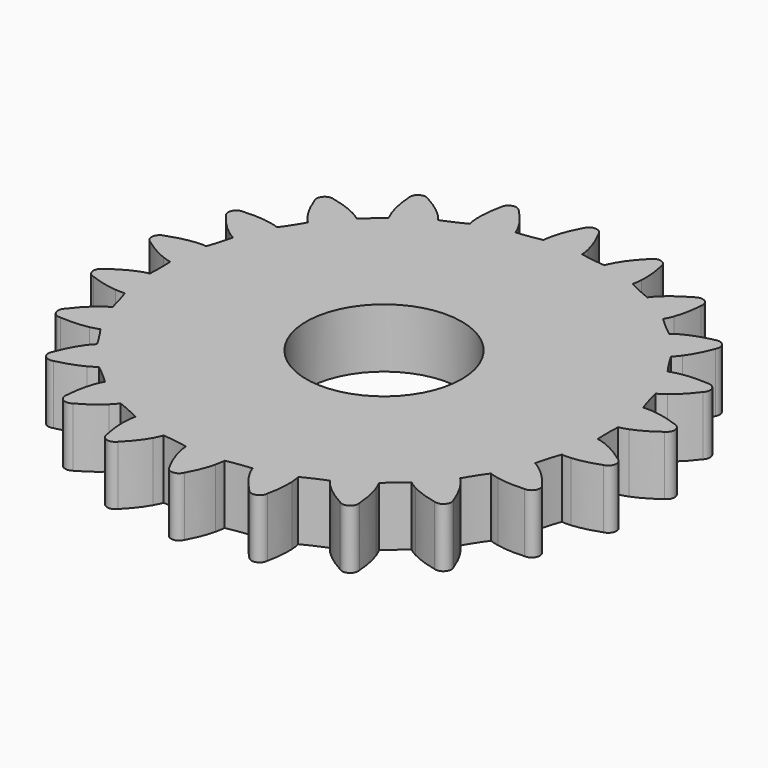
from build123d import *

# Parameters (mm, degrees)
PAD_DEPTH    = 3.9
SKETCH001_R  = 5.125
POCKET_DEPTH = 4


with BuildPart() as part:
    # InvoluteGear → Pad (new body)
    with BuildSketch(Plane.XY):
        with BuildLine():
            add(Edge.make_bspline(
                [(16.931813, -1.928575), (16.281316, -1.439068), (15.731397, -1.164724), (15.334518, -1.012043)],
                knots=[0, 0, 0, 0, 1, 1, 1, 1], degree=3))
            add(Edge.make_bspline(
                [(15.334518, -1.012043), (15.050529, -0.903254), (14.850987, -0.858636), (14.744413, -0.84061)],
                knots=[0, 0, 0, 0, 1, 1, 1, 1], degree=3))
            ThreePointArc((14.744413, -0.84061), (14.720295, -4.2e-05), (14.744061, 0.840537))
            add(Edge.make_bspline(
                [(14.744061, 0.840537), (14.850987, 0.858636), (15.050529, 0.903254), (15.334518, 1.012043)],
                knots=[0, 0, 0, 0, 1, 1, 1, 1], degree=3))
            add(Edge.make_bspline(
                [(15.334518, 1.012043), (15.731397, 1.164724), (16.281316, 1.439068), (16.931813, 1.928575)],
                knots=[0, 0, 0, 0, 1, 1, 1, 1], degree=3))
            ThreePointArc((16.931813, 1.928575), (17.208227, 2.47417), (16.789298, 2.919789))
            add(Edge.make_bspline(
                [(16.789298, 2.919789), (16.027241, 3.206201), (15.422306, 3.314502), (14.998488, 3.349185)],
                knots=[0, 0, 0, 0, 1, 1, 1, 1], degree=3))
            add(Edge.make_bspline(
                [(14.998488, 3.349185), (14.695353, 3.373558), (14.491324, 3.360151), (14.383988, 3.347422)],
                knots=[0, 0, 0, 0, 1, 1, 1, 1], degree=3))
            ThreePointArc((14.383988, 3.347422), (14.124032, 4.147147), (13.910016, 4.960371))
            add(Edge.make_bspline(
                [(13.910016, 4.960371), (14.007512, 5.007862), (14.186401, 5.10689), (14.428237, 5.291282)],
                knots=[0, 0, 0, 0, 1, 1, 1, 1], degree=3))
            add(Edge.make_bspline(
                [(14.428237, 5.291282), (14.766024, 5.549591), (15.216376, 5.967753), (15.702613, 6.620697)],
                knots=[0, 0, 0, 0, 1, 1, 1, 1], degree=3))
            ThreePointArc((15.702613, 6.620697), (15.814119, 7.222066), (15.286614, 7.531608))
            add(Edge.make_bspline(
                [(15.286614, 7.531608), (14.474734, 7.591723), (13.863791, 7.525207), (13.44737, 7.439081)],
                knots=[0, 0, 0, 0, 1, 1, 1, 1], degree=3))
            add(Edge.make_bspline(
                [(13.44737, 7.439081), (13.149646, 7.377065), (12.957659, 7.306719), (12.858258, 7.264265)],
                knots=[0, 0, 0, 0, 1, 1, 1, 1], degree=3))
            ThreePointArc((12.858258, 7.264265), (12.383523, 7.958358), (11.949064, 8.678346))
            add(Edge.make_bspline(
                [(11.949064, 8.678346), (12.029232, 8.751381), (12.172975, 8.896796), (12.353066, 9.141852)],
                knots=[0, 0, 0, 0, 1, 1, 1, 1], degree=3))
            add(Edge.make_bspline(
                [(12.353066, 9.141852), (12.604396, 9.484864), (12.918695, 10.012965), (13.201281, 10.77645)],
                knots=[0, 0, 0, 0, 1, 1, 1, 1], degree=3))
            ThreePointArc((13.201281, 10.77645), (13.138845, 11.384874), (12.545499, 11.533262))
            add(Edge.make_bspline(
                [(12.545499, 11.533262), (11.74957, 11.362208), (11.182114, 11.126265), (10.806825, 10.926308)],
                knots=[0, 0, 0, 0, 1, 1, 1, 1], degree=3))
            add(Edge.make_bspline(
                [(10.806825, 10.926308), (10.538634, 10.782925), (10.374242, 10.66134), (10.290828, 10.592601)],
                knots=[0, 0, 0, 0, 1, 1, 1, 1], degree=3))
            ThreePointArc((10.290828, 10.592601), (9.639775, 11.12483), (9.020071, 11.693252))
            add(Edge.make_bspline(
                [(9.020071, 11.693252), (9.076415, 11.785914), (9.173367, 11.965936), (9.277123, 12.251803)],
                knots=[0, 0, 0, 0, 1, 1, 1, 1], degree=3))
            add(Edge.make_bspline(
                [(9.277123, 12.251803), (9.421635, 12.651729), (9.574419, 13.246987), (9.63046, 14.059158)],
                knots=[0, 0, 0, 0, 1, 1, 1, 1], degree=3))
            ThreePointArc((9.63046, 14.059158), (9.39914, 14.625347), (8.788023, 14.60056))
            add(Edge.make_bspline(
                [(8.788023, 14.60056), (8.072526, 14.212195), (7.594529, 13.825938), (7.290776, 13.528351)],
                knots=[0, 0, 0, 0, 1, 1, 1, 1], degree=3))
            add(Edge.make_bspline(
                [(7.290776, 13.528351), (7.073844, 13.315217), (6.950366, 13.152243), (6.889697, 13.062788)],
                knots=[0, 0, 0, 0, 1, 1, 1, 1], degree=3))
            ThreePointArc((6.889697, 13.062788), (6.11507, 13.390034), (5.360325, 13.760841))
            add(Edge.make_bspline(
                [(5.360325, 13.760841), (5.38828, 13.865623), (5.430587, 14.065668), (5.449602, 14.369187)],
                knots=[0, 0, 0, 0, 1, 1, 1, 1], degree=3))
            add(Edge.make_bspline(
                [(5.449602, 14.369187), (5.475588, 14.793626), (5.45448, 15.407816), (5.279436, 16.202878)],
                knots=[0, 0, 0, 0, 1, 1, 1, 1], degree=3))
            ThreePointArc((5.279436, 16.202878), (4.897972, 16.680961), (4.318593, 16.485006))
            add(Edge.make_bspline(
                [(4.318593, 16.485006), (3.741493, 15.910795), (3.39168, 15.405517), (3.184072, 15.034406)],
                knots=[0, 0, 0, 0, 1, 1, 1, 1], degree=3))
            add(Edge.make_bspline(
                [(3.184072, 15.034406), (3.035973, 14.76879), (2.963412, 14.577629), (2.930403, 14.474705)],
                knots=[0, 0, 0, 0, 1, 1, 1, 1], degree=3))
            ThreePointArc((2.930403, 14.474705), (2.094958, 14.570458), (1.266317, 14.713608))
            add(Edge.make_bspline(
                [(1.266317, 14.713608), (1.263619, 14.822022), (1.247854, 15.025883), (1.180587, 15.322464)],
                knots=[0, 0, 0, 0, 1, 1, 1, 1], degree=3))
            add(Edge.make_bspline(
                [(1.180587, 15.322464), (1.085942, 15.737032), (0.892652, 16.320396), (0.500703, 17.033936)],
                knots=[0, 0, 0, 0, 1, 1, 1, 1], degree=3))
            ThreePointArc((0.500703, 17.033936), (0, 17.385183), (-0.500703, 17.033936))
            add(Edge.make_bspline(
                [(-0.500703, 17.033936), (-0.892652, 16.320396), (-1.085942, 15.737032), (-1.180587, 15.322464)],
                knots=[0, 0, 0, 0, 1, 1, 1, 1], degree=3))
            add(Edge.make_bspline(
                [(-1.180587, 15.322464), (-1.247854, 15.025883), (-1.263619, 14.822022), (-1.266295, 14.713968)],
                knots=[0, 0, 0, 0, 1, 1, 1, 1], degree=3))
            ThreePointArc((-1.266295, 14.713968), (-2.094875, 14.57047), (-2.93028, 14.474366))
            add(Edge.make_bspline(
                [(-2.93028, 14.474366), (-2.963412, 14.577629), (-3.035973, 14.76879), (-3.184072, 15.034406)],
                knots=[0, 0, 0, 0, 1, 1, 1, 1], degree=3))
            add(Edge.make_bspline(
                [(-3.184072, 15.034406), (-3.39168, 15.405517), (-3.741493, 15.910795), (-4.318593, 16.485006)],
                knots=[0, 0, 0, 0, 1, 1, 1, 1], degree=3))
            ThreePointArc((-4.318593, 16.485006), (-4.897972, 16.680961), (-5.279436, 16.202878))
            add(Edge.make_bspline(
                [(-5.279436, 16.202878), (-5.45448, 15.407816), (-5.475588, 14.793626), (-5.449602, 14.369187)],
                knots=[0, 0, 0, 0, 1, 1, 1, 1], degree=3))
            add(Edge.make_bspline(
                [(-5.449602, 14.369187), (-5.430587, 14.065668), (-5.38828, 13.865623), (-5.360405, 13.761192)],
                knots=[0, 0, 0, 0, 1, 1, 1, 1], degree=3))
            ThreePointArc((-5.360405, 13.761192), (-6.114994, 13.390069), (-6.889484, 13.062497))
            add(Edge.make_bspline(
                [(-6.889484, 13.062497), (-6.950366, 13.152243), (-7.073844, 13.315217), (-7.290776, 13.528351)],
                knots=[0, 0, 0, 0, 1, 1, 1, 1], degree=3))
            add(Edge.make_bspline(
                [(-7.290776, 13.528351), (-7.594529, 13.825938), (-8.072526, 14.212195), (-8.788023, 14.60056)],
                knots=[0, 0, 0, 0, 1, 1, 1, 1], degree=3))
            ThreePointArc((-8.788023, 14.60056), (-9.39914, 14.625347), (-9.63046, 14.059158))
            add(Edge.make_bspline(
                [(-9.63046, 14.059158), (-9.574419, 13.246987), (-9.421635, 12.651729), (-9.277123, 12.251803)],
                knots=[0, 0, 0, 0, 1, 1, 1, 1], degree=3))
            add(Edge.make_bspline(
                [(-9.277123, 12.251803), (-9.173367, 11.965936), (-9.076415, 11.785914), (-9.020246, 11.693567)],
                knots=[0, 0, 0, 0, 1, 1, 1, 1], degree=3))
            ThreePointArc((-9.020246, 11.693567), (-9.639712, 11.124884), (-10.290542, 10.592383))
            add(Edge.make_bspline(
                [(-10.290542, 10.592383), (-10.374242, 10.66134), (-10.538634, 10.782925), (-10.806825, 10.926308)],
                knots=[0, 0, 0, 0, 1, 1, 1, 1], degree=3))
            add(Edge.make_bspline(
                [(-10.806825, 10.926308), (-11.182114, 11.126265), (-11.74957, 11.362208), (-12.545499, 11.533262)],
                knots=[0, 0, 0, 0, 1, 1, 1, 1], degree=3))
            ThreePointArc((-12.545499, 11.533262), (-13.138845, 11.384874), (-13.201281, 10.77645))
            add(Edge.make_bspline(
                [(-13.201281, 10.77645), (-12.918695, 10.012965), (-12.604396, 9.484864), (-12.353066, 9.141852)],
                knots=[0, 0, 0, 0, 1, 1, 1, 1], degree=3))
            add(Edge.make_bspline(
                [(-12.353066, 9.141852), (-12.172975, 8.896796), (-12.029232, 8.751381), (-11.949322, 8.678598)],
                knots=[0, 0, 0, 0, 1, 1, 1, 1], degree=3))
            ThreePointArc((-11.949322, 8.678598), (-12.383478, 7.958428), (-12.857922, 7.264136))
            add(Edge.make_bspline(
                [(-12.857922, 7.264136), (-12.957659, 7.306719), (-13.149646, 7.377065), (-13.44737, 7.439081)],
                knots=[0, 0, 0, 0, 1, 1, 1, 1], degree=3))
            add(Edge.make_bspline(
                [(-13.44737, 7.439081), (-13.863791, 7.525207), (-14.474734, 7.591723), (-15.286614, 7.531608)],
                knots=[0, 0, 0, 0, 1, 1, 1, 1], degree=3))
            ThreePointArc((-15.286614, 7.531608), (-15.814119, 7.222066), (-15.702613, 6.620697))
            add(Edge.make_bspline(
                [(-15.702613, 6.620697), (-15.216376, 5.967753), (-14.766024, 5.549591), (-14.428237, 5.291282)],
                knots=[0, 0, 0, 0, 1, 1, 1, 1], degree=3))
            add(Edge.make_bspline(
                [(-14.428237, 5.291282), (-14.186401, 5.10689), (-14.007512, 5.007862), (-13.910334, 4.960541)],
                knots=[0, 0, 0, 0, 1, 1, 1, 1], degree=3))
            ThreePointArc((-13.910334, 4.960541), (-14.124008, 4.147226), (-14.383629, 3.347392))
            add(Edge.make_bspline(
                [(-14.383629, 3.347392), (-14.491324, 3.360151), (-14.695353, 3.373558), (-14.998488, 3.349185)],
                knots=[0, 0, 0, 0, 1, 1, 1, 1], degree=3))
            add(Edge.make_bspline(
                [(-14.998488, 3.349185), (-15.422306, 3.314502), (-16.027241, 3.206201), (-16.789298, 2.919789)],
                knots=[0, 0, 0, 0, 1, 1, 1, 1], degree=3))
            ThreePointArc((-16.789298, 2.919789), (-17.208227, 2.47417), (-16.931813, 1.928575))
            add(Edge.make_bspline(
                [(-16.931813, 1.928575), (-16.281316, 1.439068), (-15.731397, 1.164724), (-15.334518, 1.012043)],
                knots=[0, 0, 0, 0, 1, 1, 1, 1], degree=3))
            add(Edge.make_bspline(
                [(-15.334518, 1.012043), (-15.050529, 0.903254), (-14.850987, 0.858636), (-14.744413, 0.84061)],
                knots=[0, 0, 0, 0, 1, 1, 1, 1], degree=3))
            ThreePointArc((-14.744413, 0.84061), (-14.720295, 4.2e-05), (-14.744061, -0.840537))
            add(Edge.make_bspline(
                [(-14.744061, -0.840537), (-14.850987, -0.858636), (-15.050529, -0.903254), (-15.334518, -1.012043)],
                knots=[0, 0, 0, 0, 1, 1, 1, 1], degree=3))
            add(Edge.make_bspline(
                [(-15.334518, -1.012043), (-15.731397, -1.164724), (-16.281316, -1.439068), (-16.931813, -1.928575)],
                knots=[0, 0, 0, 0, 1, 1, 1, 1], degree=3))
            ThreePointArc((-16.931813, -1.928575), (-17.208227, -2.47417), (-16.789298, -2.919789))
            add(Edge.make_bspline(
                [(-16.789298, -2.919789), (-16.027241, -3.206201), (-15.422306, -3.314502), (-14.998488, -3.349185)],
                knots=[0, 0, 0, 0, 1, 1, 1, 1], degree=3))
            add(Edge.make_bspline(
                [(-14.998488, -3.349185), (-14.695353, -3.373558), (-14.491324, -3.360151), (-14.383988, -3.347422)],
                knots=[0, 0, 0, 0, 1, 1, 1, 1], degree=3))
            ThreePointArc((-14.383988, -3.347422), (-14.124032, -4.147147), (-13.910016, -4.960371))
            add(Edge.make_bspline(
                [(-13.910016, -4.960371), (-14.007512, -5.007862), (-14.186401, -5.10689), (-14.428237, -5.291282)],
                knots=[0, 0, 0, 0, 1, 1, 1, 1], degree=3))
            add(Edge.make_bspline(
                [(-14.428237, -5.291282), (-14.766024, -5.549591), (-15.216376, -5.967753), (-15.702613, -6.620697)],
                knots=[0, 0, 0, 0, 1, 1, 1, 1], degree=3))
            ThreePointArc((-15.702613, -6.620697), (-15.814119, -7.222066), (-15.286614, -7.531608))
            add(Edge.make_bspline(
                [(-15.286614, -7.531608), (-14.474734, -7.591723), (-13.863791, -7.525207), (-13.44737, -7.439081)],
                knots=[0, 0, 0, 0, 1, 1, 1, 1], degree=3))
            add(Edge.make_bspline(
                [(-13.44737, -7.439081), (-13.149646, -7.377065), (-12.957659, -7.306719), (-12.858258, -7.264265)],
                knots=[0, 0, 0, 0, 1, 1, 1, 1], degree=3))
            ThreePointArc((-12.858258, -7.264265), (-12.383523, -7.958358), (-11.949064, -8.678346))
            add(Edge.make_bspline(
                [(-11.949064, -8.678346), (-12.029232, -8.751381), (-12.172975, -8.896796), (-12.353066, -9.141852)],
                knots=[0, 0, 0, 0, 1, 1, 1, 1], degree=3))
            add(Edge.make_bspline(
                [(-12.353066, -9.141852), (-12.604396, -9.484864), (-12.918695, -10.012965), (-13.201281, -10.77645)],
                knots=[0, 0, 0, 0, 1, 1, 1, 1], degree=3))
            ThreePointArc((-13.201281, -10.77645), (-13.138845, -11.384874), (-12.545499, -11.533262))
            add(Edge.make_bspline(
                [(-12.545499, -11.533262), (-11.74957, -11.362208), (-11.182114, -11.126265), (-10.806825, -10.926308)],
                knots=[0, 0, 0, 0, 1, 1, 1, 1], degree=3))
            add(Edge.make_bspline(
                [(-10.806825, -10.926308), (-10.538634, -10.782925), (-10.374242, -10.66134), (-10.290828, -10.592601)],
                knots=[0, 0, 0, 0, 1, 1, 1, 1], degree=3))
            ThreePointArc((-10.290828, -10.592601), (-9.639775, -11.12483), (-9.020071, -11.693252))
            add(Edge.make_bspline(
                [(-9.020071, -11.693252), (-9.076415, -11.785914), (-9.173367, -11.965936), (-9.277123, -12.251803)],
                knots=[0, 0, 0, 0, 1, 1, 1, 1], degree=3))
            add(Edge.make_bspline(
                [(-9.277123, -12.251803), (-9.421635, -12.651729), (-9.574419, -13.246987), (-9.63046, -14.059158)],
                knots=[0, 0, 0, 0, 1, 1, 1, 1], degree=3))
            ThreePointArc((-9.63046, -14.059158), (-9.39914, -14.625347), (-8.788023, -14.60056))
            add(Edge.make_bspline(
                [(-8.788023, -14.60056), (-8.072526, -14.212195), (-7.594529, -13.825938), (-7.290776, -13.528351)],
                knots=[0, 0, 0, 0, 1, 1, 1, 1], degree=3))
            add(Edge.make_bspline(
                [(-7.290776, -13.528351), (-7.073844, -13.315217), (-6.950366, -13.152243), (-6.889697, -13.062788)],
                knots=[0, 0, 0, 0, 1, 1, 1, 1], degree=3))
            ThreePointArc((-6.889697, -13.062788), (-6.11507, -13.390034), (-5.360325, -13.760841))
            add(Edge.make_bspline(
                [(-5.360325, -13.760841), (-5.38828, -13.865623), (-5.430587, -14.065668), (-5.449602, -14.369187)],
                knots=[0, 0, 0, 0, 1, 1, 1, 1], degree=3))
            add(Edge.make_bspline(
                [(-5.449602, -14.369187), (-5.475588, -14.793626), (-5.45448, -15.407816), (-5.279436, -16.202878)],
                knots=[0, 0, 0, 0, 1, 1, 1, 1], degree=3))
            ThreePointArc((-5.279436, -16.202878), (-4.897972, -16.680961), (-4.318593, -16.485006))
            add(Edge.make_bspline(
                [(-4.318593, -16.485006), (-3.741493, -15.910795), (-3.39168, -15.405517), (-3.184072, -15.034406)],
                knots=[0, 0, 0, 0, 1, 1, 1, 1], degree=3))
            add(Edge.make_bspline(
                [(-3.184072, -15.034406), (-3.035973, -14.76879), (-2.963412, -14.577629), (-2.930403, -14.474705)],
                knots=[0, 0, 0, 0, 1, 1, 1, 1], degree=3))
            ThreePointArc((-2.930403, -14.474705), (-2.094958, -14.570458), (-1.266317, -14.713608))
            add(Edge.make_bspline(
                [(-1.266317, -14.713608), (-1.263619, -14.822022), (-1.247854, -15.025883), (-1.180587, -15.322464)],
                knots=[0, 0, 0, 0, 1, 1, 1, 1], degree=3))
            add(Edge.make_bspline(
                [(-1.180587, -15.322464), (-1.085942, -15.737032), (-0.892652, -16.320396), (-0.500703, -17.033936)],
                knots=[0, 0, 0, 0, 1, 1, 1, 1], degree=3))
            ThreePointArc((-0.500703, -17.033936), (0, -17.385183), (0.500703, -17.033936))
            add(Edge.make_bspline(
                [(0.500703, -17.033936), (0.892652, -16.320396), (1.085942, -15.737032), (1.180587, -15.322464)],
                knots=[0, 0, 0, 0, 1, 1, 1, 1], degree=3))
            add(Edge.make_bspline(
                [(1.180587, -15.322464), (1.247854, -15.025883), (1.263619, -14.822022), (1.266295, -14.713968)],
                knots=[0, 0, 0, 0, 1, 1, 1, 1], degree=3))
            ThreePointArc((1.266295, -14.713968), (2.094875, -14.57047), (2.93028, -14.474366))
            add(Edge.make_bspline(
                [(2.93028, -14.474366), (2.963412, -14.577629), (3.035973, -14.76879), (3.184072, -15.034406)],
                knots=[0, 0, 0, 0, 1, 1, 1, 1], degree=3))
            add(Edge.make_bspline(
                [(3.184072, -15.034406), (3.39168, -15.405517), (3.741493, -15.910795), (4.318593, -16.485006)],
                knots=[0, 0, 0, 0, 1, 1, 1, 1], degree=3))
            ThreePointArc((4.318593, -16.485006), (4.897972, -16.680961), (5.279436, -16.202878))
            add(Edge.make_bspline(
                [(5.279436, -16.202878), (5.45448, -15.407816), (5.475588, -14.793626), (5.449602, -14.369187)],
                knots=[0, 0, 0, 0, 1, 1, 1, 1], degree=3))
            add(Edge.make_bspline(
                [(5.449602, -14.369187), (5.430587, -14.065668), (5.38828, -13.865623), (5.360405, -13.761192)],
                knots=[0, 0, 0, 0, 1, 1, 1, 1], degree=3))
            ThreePointArc((5.360405, -13.761192), (6.114994, -13.390069), (6.889484, -13.062497))
            add(Edge.make_bspline(
                [(6.889484, -13.062497), (6.950366, -13.152243), (7.073844, -13.315217), (7.290776, -13.528351)],
                knots=[0, 0, 0, 0, 1, 1, 1, 1], degree=3))
            add(Edge.make_bspline(
                [(7.290776, -13.528351), (7.594529, -13.825938), (8.072526, -14.212195), (8.788023, -14.60056)],
                knots=[0, 0, 0, 0, 1, 1, 1, 1], degree=3))
            ThreePointArc((8.788023, -14.60056), (9.39914, -14.625347), (9.63046, -14.059158))
            add(Edge.make_bspline(
                [(9.63046, -14.059158), (9.574419, -13.246987), (9.421635, -12.651729), (9.277123, -12.251803)],
                knots=[0, 0, 0, 0, 1, 1, 1, 1], degree=3))
            add(Edge.make_bspline(
                [(9.277123, -12.251803), (9.173367, -11.965936), (9.076415, -11.785914), (9.020246, -11.693567)],
                knots=[0, 0, 0, 0, 1, 1, 1, 1], degree=3))
            ThreePointArc((9.020246, -11.693567), (9.639712, -11.124884), (10.290542, -10.592383))
            add(Edge.make_bspline(
                [(10.290542, -10.592383), (10.374242, -10.66134), (10.538634, -10.782925), (10.806825, -10.926308)],
                knots=[0, 0, 0, 0, 1, 1, 1, 1], degree=3))
            add(Edge.make_bspline(
                [(10.806825, -10.926308), (11.182114, -11.126265), (11.74957, -11.362208), (12.545499, -11.533262)],
                knots=[0, 0, 0, 0, 1, 1, 1, 1], degree=3))
            ThreePointArc((12.545499, -11.533262), (13.138845, -11.384874), (13.201281, -10.77645))
            add(Edge.make_bspline(
                [(13.201281, -10.77645), (12.918695, -10.012965), (12.604396, -9.484864), (12.353066, -9.141852)],
                knots=[0, 0, 0, 0, 1, 1, 1, 1], degree=3))
            add(Edge.make_bspline(
                [(12.353066, -9.141852), (12.172975, -8.896796), (12.029232, -8.751381), (11.949322, -8.678598)],
                knots=[0, 0, 0, 0, 1, 1, 1, 1], degree=3))
            ThreePointArc((11.949322, -8.678598), (12.383478, -7.958428), (12.857922, -7.264136))
            add(Edge.make_bspline(
                [(12.857922, -7.264136), (12.957659, -7.306719), (13.149646, -7.377065), (13.44737, -7.439081)],
                knots=[0, 0, 0, 0, 1, 1, 1, 1], degree=3))
            add(Edge.make_bspline(
                [(13.44737, -7.439081), (13.863791, -7.525207), (14.474734, -7.591723), (15.286614, -7.531608)],
                knots=[0, 0, 0, 0, 1, 1, 1, 1], degree=3))
            ThreePointArc((15.286614, -7.531608), (15.814119, -7.222066), (15.702613, -6.620697))
            add(Edge.make_bspline(
                [(15.702613, -6.620697), (15.216376, -5.967753), (14.766024, -5.549591), (14.428237, -5.291282)],
                knots=[0, 0, 0, 0, 1, 1, 1, 1], degree=3))
            add(Edge.make_bspline(
                [(14.428237, -5.291282), (14.186401, -5.10689), (14.007512, -5.007862), (13.910334, -4.960541)],
                knots=[0, 0, 0, 0, 1, 1, 1, 1], degree=3))
            ThreePointArc((13.910334, -4.960541), (14.124008, -4.147226), (14.383629, -3.347392))
            add(Edge.make_bspline(
                [(14.383629, -3.347392), (14.491324, -3.360151), (14.695353, -3.373558), (14.998488, -3.349185)],
                knots=[0, 0, 0, 0, 1, 1, 1, 1], degree=3))
            add(Edge.make_bspline(
                [(14.998488, -3.349185), (15.422306, -3.314502), (16.027241, -3.206201), (16.789298, -2.919789)],
                knots=[0, 0, 0, 0, 1, 1, 1, 1], degree=3))
            ThreePointArc((16.789298, -2.919789), (17.208227, -2.47417), (16.931813, -1.928575))
        make_face()
    extrude(amount=PAD_DEPTH)

    # Sketch001 (on Face134 of Pad) → Pocket (cut)
    with BuildSketch(Plane.XY.offset(3.9)):
        Circle(SKETCH001_R)
    extrude(amount=-POCKET_DEPTH, mode=Mode.SUBTRACT)


solid = part.part
